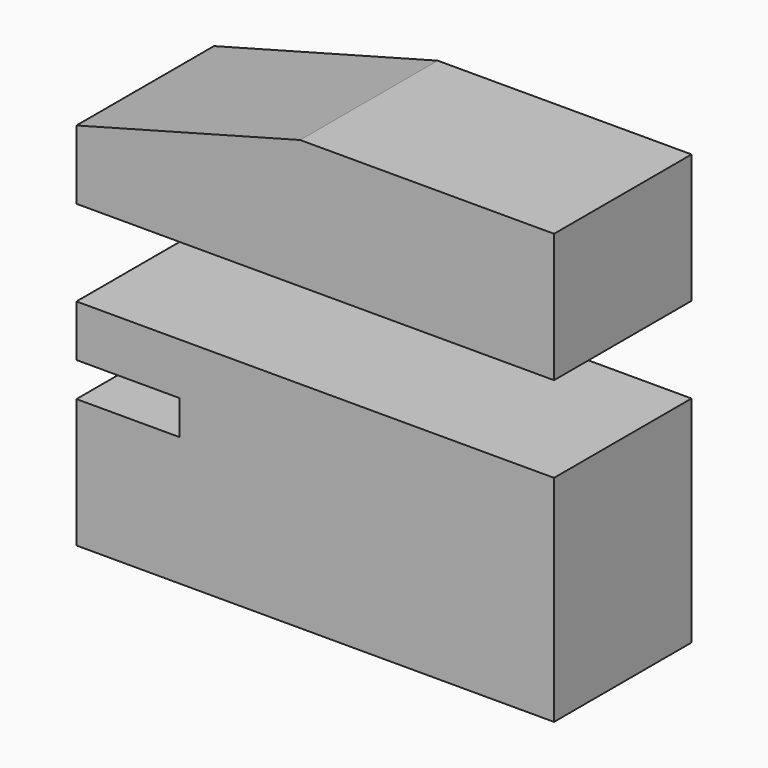
from build123d import *

# Parameters (mm, degrees)
F1_DEPTH = 6.35
F2_W     = 35.284452
F2_H     = 9.525
F3_DEPTH = 6.35
F5_DEPTH = 12.7


with BuildPart() as f1:
    # F0 (on Front) → F1 (new body, symmetric)
    with BuildSketch(Plane.XZ):
        Polygon((-16.52972, 0), (0, 0), (18.754732, 0), (18.754732, 9.525), (0, 9.525), (-16.52972, 5.095875), align=None)
    extrude(amount=F1_DEPTH, both=True)


with BuildPart() as f3:
    # F2 (on Front) → F3 (new body, symmetric)
    with BuildSketch(Plane.XZ):
        with Locations((1.112506, -17.4625)):
            Rectangle(F2_W, F2_H)
    extrude(amount=F3_DEPTH, both=True)

    # F4 (on face) → F5 (join, through all)
    with BuildSketch(Plane.XZ.offset(6.35)):
        Polygon((-8.90972, -12.7), (18.754732, -12.7), (18.754732, -10.16), (18.754732, -6.35), (-16.52972, -6.35), (-16.52972, -10.16), (-8.90972, -10.16), align=None)
    extrude(amount=-F5_DEPTH)


solid = Compound([f1.part, f3.part])
